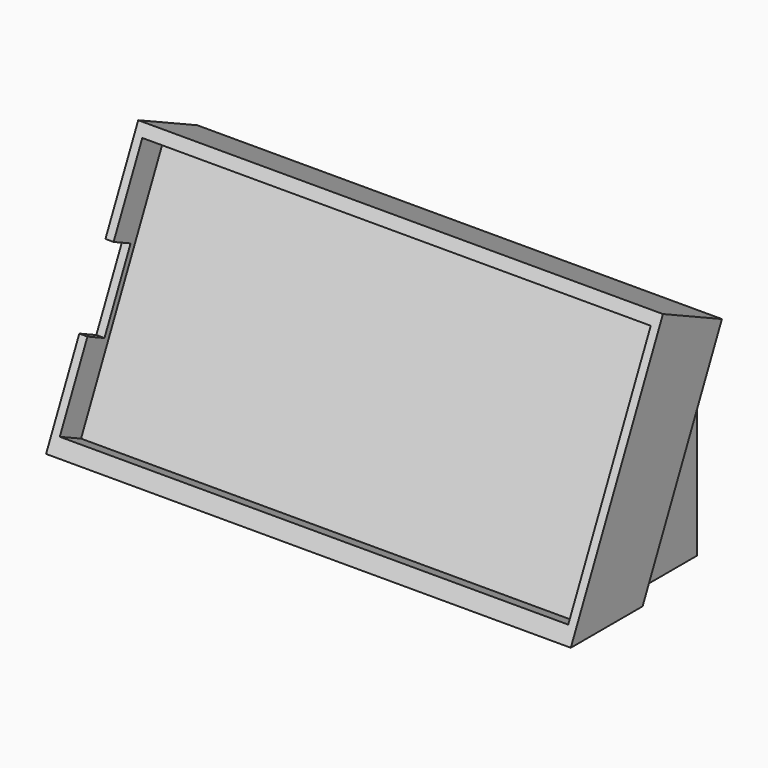
from build123d import *

# Parameters (mm, degrees)
BOX009_W               = 2
BOX009_H               = 6
BOX009_DEPTH           = 19
BOX009_PLACEMENT_ANGLE = 25
BOX005_W               = 8
BOX005_H               = 9
BOX005_DEPTH           = 20
BOX007_W               = 125
BOX007_H               = 8
BOX007_DEPTH           = 60
BOX007_PLACEMENT_ANGLE = 25
BOX008_W               = 129
BOX008_H               = 47
BOX008_DEPTH           = 10
BOX004_W               = 8
BOX004_H               = 9
BOX004_DEPTH           = 20
BOX006_W               = 120
BOX006_H               = 20
BOX006_DEPTH           = 46
BOX003_W               = 129
BOX003_H               = 20
BOX003_DEPTH           = 67
BOX003_PLACEMENT_ANGLE = 25


with BuildPart() as cube009:
    # Box009 → Box009 (new body)
    with BuildSketch(Plane.XY):
        with Locations((1, 3)):
            Rectangle(BOX009_W, BOX009_H)
    extrude(amount=BOX009_DEPTH)


with BuildPart() as cube009_1:
    # Box009 placement: moved
    add(cube009.part.moved(Location((-9, -15, 92))).rotate(Axis((-9, -15, 92), (-1, 0, 0)), BOX009_PLACEMENT_ANGLE))


with BuildPart() as cube005:
    # Box005 → Box005 (new body)
    with BuildSketch(Plane(origin=(103, 8, 70), x_dir=(1, 0, 0), z_dir=(0, 0, 1))):
        with Locations((4, 4.5)):
            Rectangle(BOX005_W, BOX005_H)
    extrude(amount=BOX005_DEPTH)


with BuildPart() as cube007:
    # Box007 → Box007 (new body)
    with BuildSketch(Plane.XY):
        with Locations((62.5, 4)):
            Rectangle(BOX007_W, BOX007_H)
    extrude(amount=BOX007_DEPTH)


with BuildPart() as cube007_1:
    # Box007 placement: moved
    add(cube007.part.moved(Location((-7, -24, 74))).rotate(Axis((-7, -24, 74), (-1, 0, 0)), BOX007_PLACEMENT_ANGLE))


with BuildPart() as cube008:
    # Box008 → Box008 (new body)
    with BuildSketch(Plane(origin=(-9, -27, 60), x_dir=(1, 0, 0), z_dir=(0, 0, 1))):
        with Locations((64.5, 23.5)):
            Rectangle(BOX008_W, BOX008_H)
    extrude(amount=BOX008_DEPTH)


with BuildPart() as fusion004:
    # Box004 → Box004 (new body)
    with BuildSketch(Plane(origin=(-1, 8, 70), x_dir=(1, 0, 0), z_dir=(0, 0, 1))):
        with Locations((4, 4.5)):
            Rectangle(BOX004_W, BOX004_H)
    extrude(amount=BOX004_DEPTH)

    # Fusion004: union Cube005, Cube007, Cube008
    add(cube005.part)
    add(cube007_1.part)
    add(cube008.part)


with BuildPart() as cube006:
    # Box006 → Box006 (new body)
    with BuildSketch(Plane(origin=(-5, 0, 70), x_dir=(1, 0, 0), z_dir=(0, 0, 1))):
        with Locations((60, 10)):
            Rectangle(BOX006_W, BOX006_H)
    extrude(amount=BOX006_DEPTH)


with BuildPart() as iphonehalterung:
    # Box003 → Box003 (new body)
    with BuildSketch(Plane.XY):
        with Locations((64.5, 10)):
            Rectangle(BOX003_W, BOX003_H)
    extrude(amount=BOX003_DEPTH)


with BuildPart() as iphonehalterung_1:
    # Box003 placement: moved
    add(iphonehalterung.part.moved(Location((-9, -25, 70))).rotate(Axis((-9, -25, 70), (-1, 0, 0)), BOX003_PLACEMENT_ANGLE))

    # Fusion003: union Cube006
    add(cube006.part)

    # Cut001: cut Fusion004
    add(fusion004.part, mode=Mode.SUBTRACT)

    # Cut002: cut Cube009
    add(cube009_1.part, mode=Mode.SUBTRACT)


solid = iphonehalterung_1.part
